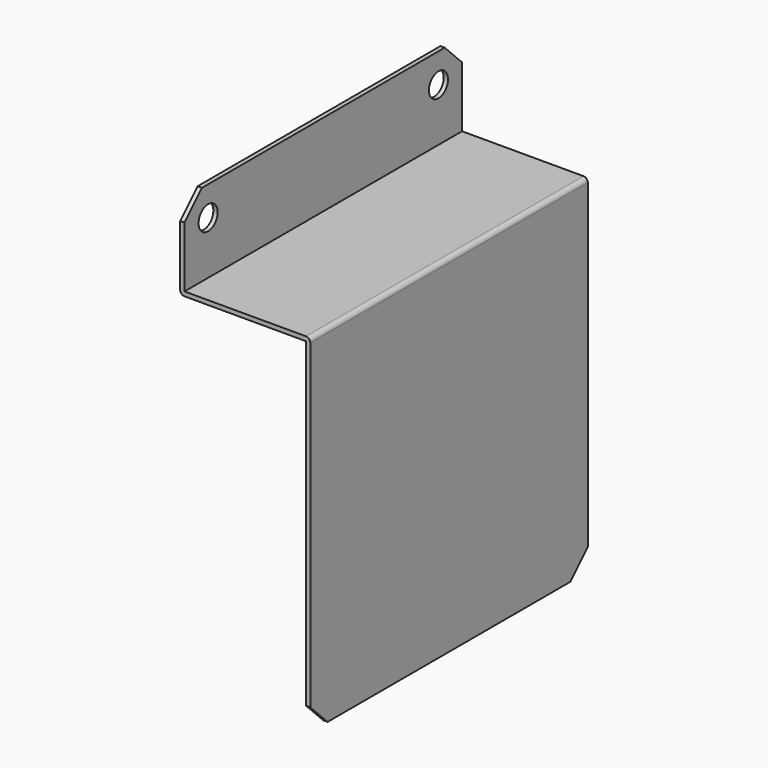
from build123d import *

# Parameters (mm, degrees)
F1_DEPTH = 80
F3_D     = 5.5
F4_SIZE  = 5
F5_R     = 1


with BuildPart() as f1:
    # F0 (on Front) → F1 (new body)
    with BuildSketch(Plane.XZ):
        Polygon((0, 20), (0, 0), (29, 0), (29, -79), (30, -79), (30, 1), (1, 1), (1, 20), align=None)
    extrude(amount=F1_DEPTH)

    # F3 (through all)
    with Locations(Plane.YZ.offset(1)):
        with Locations((-73.2, 13.2), (-6.8, 13.2)):
            Hole(F3_D / 2)

    # F4
    f4_edges = [f1.edges().sort_by_distance(p)[0] for p in [
        (0.5, -80, 20),
        (0.5, 0, 20),
        (29.5, 0, -79),
        (29.5, -80, -79),
    ]]
    chamfer(f4_edges, length=F4_SIZE)

    # F5
    f5_edges = [f1.edges().sort_by_distance(p)[0] for p in [
        (30, -40, 1),
        (0, -40, 0),
    ]]
    fillet(f5_edges, radius=F5_R)


solid = f1.part
